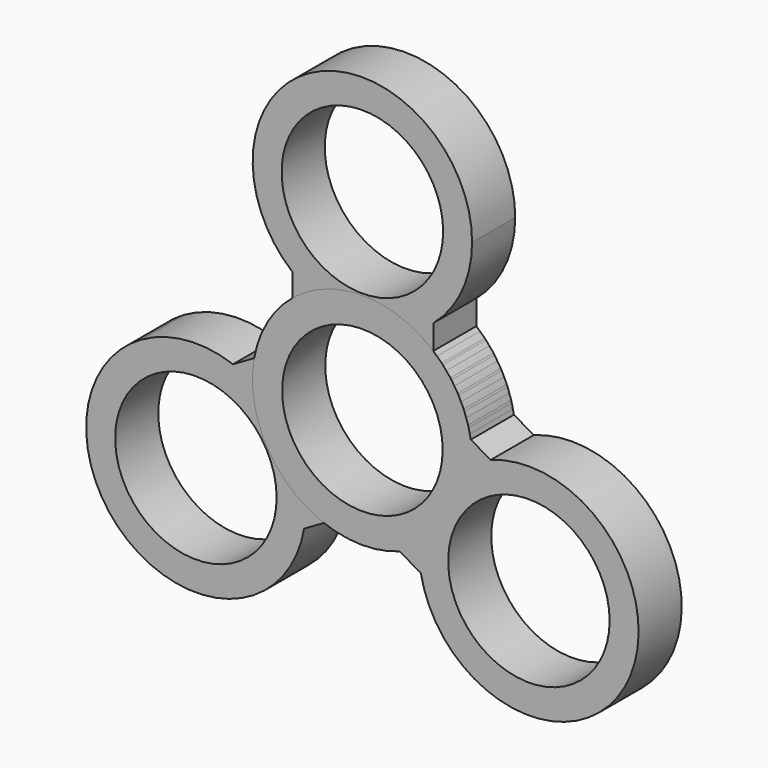
from build123d import *

# Parameters (mm, degrees)
F0_R     = 11.0207125827
F0_R_2   = 11.0849012075
F1_DEPTH = 7.4
F2_ANGLE = 120
F3_ANGLE = 120


with BuildPart() as f1:
    # F0 (on Front) → F1 (new body)
    with BuildSketch(Plane.XZ):
        with BuildLine():
            ThreePointArc((-9.6014685587, 11.6429855426), (-6.4361741849, -13.6500173147), (15.0912991763, 0))
            ThreePointArc((15.0912991763, 0), (13.6872192161, 6.3566768803), (9.7362478333, 11.5305155547))
            ThreePointArc((9.7362478333, 11.5305155547), (8.5538020402, 12.4330117625), (7.2882518412, 13.2147151285))
            ThreePointArc((7.2882518412, 13.2147151285), (0, 11.3340327263), (-7.2882518412, 13.2147151285))
            ThreePointArc((-7.2882518412, 13.2147151285), (-8.4813470198, 12.4825503628), (-9.6014685587, 11.6429855426))
        make_face()
        Circle(F0_R, mode=Mode.SUBTRACT)
        with BuildLine():
            ThreePointArc((7.2882518412, 13.2147151285), (8.5538020402, 12.4330117625), (9.7362478333, 11.5305155547))
            Line((9.7362478333, 11.5305155547), (9.7362478333, 14.9037336933))
            ThreePointArc((9.7362478333, 14.9037336933), (8.5540395849, 13.9986560212), (7.2882518412, 13.2147151285))
        make_face()
        with BuildLine():
            Line((-9.6014685587, 14.7908982512), (-9.6014685587, 11.6429855426))
            ThreePointArc((-9.6014685587, 11.6429855426), (-8.4813470198, 12.4825503628), (-7.2882518412, 13.2147151285))
            ThreePointArc((-7.2882518412, 13.2147151285), (-8.4815536375, 13.9489551596), (-9.6014685587, 14.7908982512))
        make_face()
        with BuildLine():
            ThreePointArc((-7.2882518412, 13.2147151285), (0, 15.0912991763), (7.2882518412, 13.2147151285))
            ThreePointArc((7.2882518412, 13.2147151285), (8.5540395849, 13.9986560212), (9.7362478333, 14.9037336933))
            ThreePointArc((9.7362478333, 14.9037336933), (13.6662246396, 20.0630249334), (15.0625063359, 26.3965390623))
            ThreePointArc((15.0625063359, 26.3965390623), (-6.413147282, 40.0255756775), (-9.6014685587, 14.7908982512))
            ThreePointArc((-9.6014685587, 14.7908982512), (-8.4815536375, 13.9489551596), (-7.2882518412, 13.2147151285))
        make_face()
        with Locations((0, 26.3965390623)):
            Circle(F0_R_2, mode=Mode.SUBTRACT)
        with BuildLine():
            ThreePointArc((-7.2882518412, 13.2147151285), (0, 11.3340327263), (7.2882518412, 13.2147151285))
            ThreePointArc((7.2882518412, 13.2147151285), (0, 15.0912991763), (-7.2882518412, 13.2147151285))
        make_face()
    extrude(amount=F1_DEPTH)


with BuildPart() as f2_1:
    # F2: copy of F1
    add(f1.part.rotate(Axis((0, -7.4, 0), (0, -1, 0)), F2_ANGLE))


with BuildPart() as f3_1:
    # F3: copy of F2_1
    add(f2_1.part.rotate(Axis((0, -7.4, 0), (0, -1, 0)), F3_ANGLE))


solid = Compound([f1.part, f2_1.part, f3_1.part])
